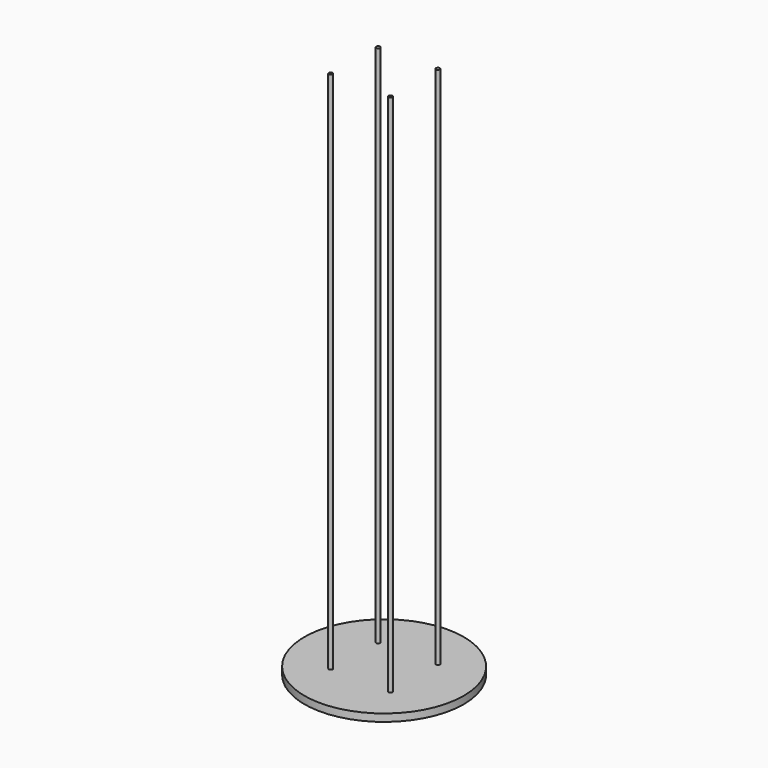
from build123d import *

# Parameters (mm, degrees)
F0_R     = 7.5
F1_DEPTH = 0.7
F2_R     = 0.183
F3_DEPTH = 50


with BuildPart() as f1:
    # F0 (on Top) → F1 (new body)
    with BuildSketch(Plane.XY):
        Circle(F0_R)
    extrude(amount=F1_DEPTH)

    # F2 (on Top) → F3 (join)
    with BuildSketch(Plane.XY):
        with Locations((-2.734368, 2.716938)):
            Circle(F2_R)
        with Locations((2.83951, 2.785288)):
            Circle(F2_R)
        with Locations((2.876553, -2.831199)):
            Circle(F2_R)
        with Locations((-2.841227, -2.724453)):
            Circle(F2_R)
    extrude(amount=F3_DEPTH)


solid = f1.part
